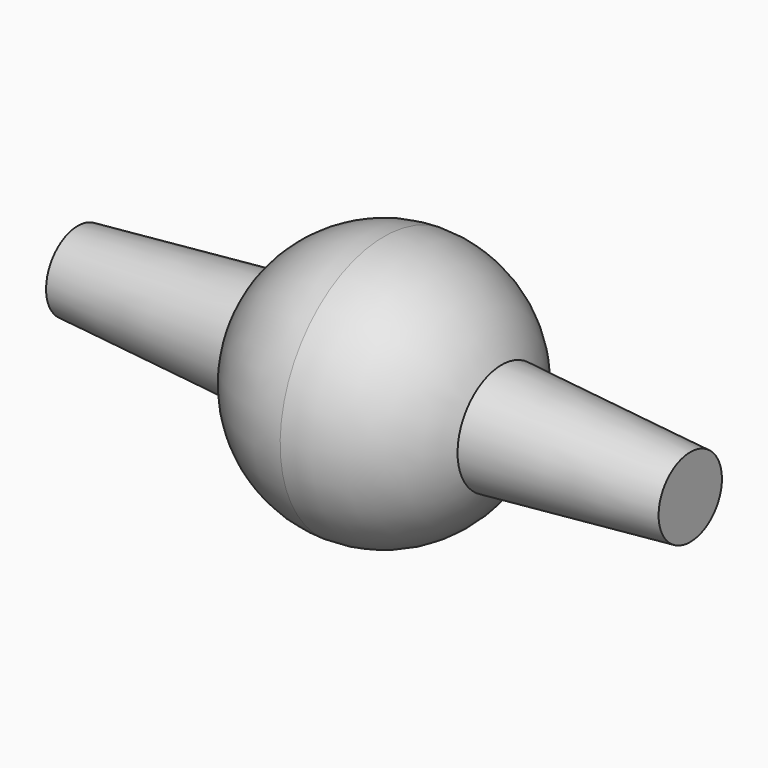
from build123d import *


with BuildPart() as f1:
    # F0 (on Front) → F1 (revolve)
    with BuildSketch(Plane.XZ):
        with BuildLine():
            Line((-64.32654, -8.31718), (-24.69615, -11.560256))
            ThreePointArc((-24.69615, -11.560256), (-14.634125, -23.008297), (0, -27.267918))
            Line((0, -27.267918), (0, 0))
            Line((0, 0), (-64.32654, 0))
            Line((-64.32654, 0), (-64.32654, -8.31718))
        make_face()
    revolve(axis=Axis((-32.16327, 0, 0), (-1, 0, 0)))

    # F2: F1 across plane


with BuildPart() as f1_1:
    add(f1.part)
    add(f1.part.mirror(Plane.YZ))


solid = f1_1.part
